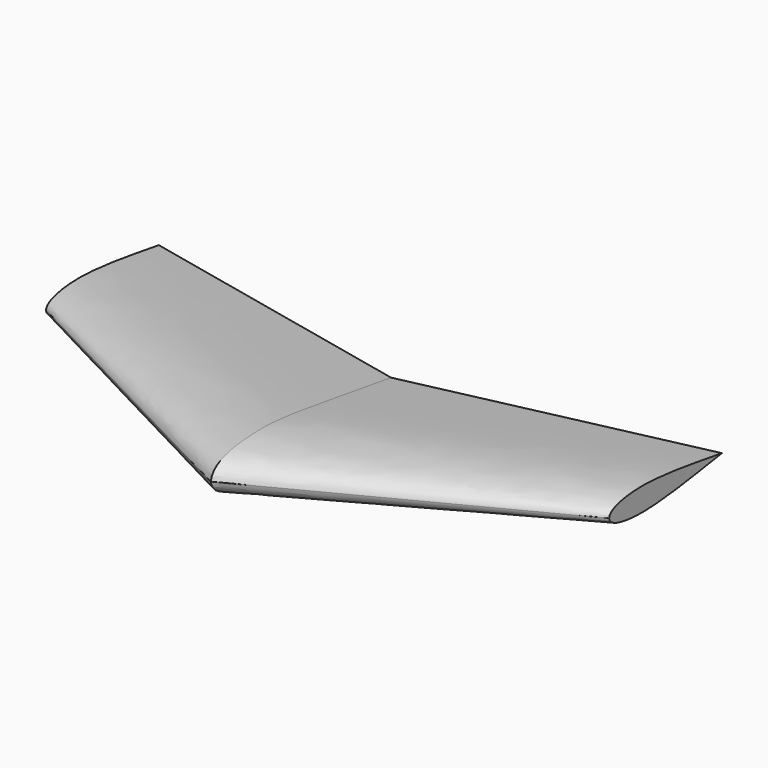
from build123d import *


with BuildPart() as f3:
    # F0 (on Right) → F3 section 0
    with BuildSketch(Plane.YZ):
        with BuildLine():
            add(Edge.make_bspline(
                [(-74.6488047036, 0), (-73.1489053966, 10.9129272424), (-22.272755378, 17.3639923162), (0, 11.4252935935), (77.7511952964, 0)],
                knots=[0, 0, 0, 0, 0.3579975169, 1, 1, 1, 1], degree=3))
            add(Edge.make_bspline(
                [(-74.6488047036, 0), (-73.1489053966, -10.9129272424), (-22.272755378, -17.3639923162), (0, -11.4252935935), (77.7511952964, 0)],
                knots=[0, 0, 0, 0, 0.3579975169, 1, 1, 1, 1], degree=3))
        make_face()
    # F2 (on offset) → F3 section 1
    with BuildSketch(Plane.YZ.offset(-190.5)):
        with BuildLine():
            add(Edge.make_bspline(
                [(24.1265352815, 0), (24.1203909695, 3.9409226355), (47.6140337916, 11.2429135324), (83.1143904431, 5.6967475629), (119.468845427, 0)],
                knots=[0, 0, 0, 0, 0.3223846335, 1, 1, 1, 1], degree=3))
            add(Edge.make_bspline(
                [(24.1265352815, 0), (24.1203909695, -3.9409226355), (47.6140337916, -11.2429135324), (83.1143904431, -5.6967475629), (119.468845427, 0)],
                knots=[0, 0, 0, 0, 0.3223846335, 1, 1, 1, 1], degree=3))
        make_face()
    loft()

    # F4: F3 across plane


with BuildPart() as f3_1:
    add(f3.part)
    add(f3.part.mirror(Plane.YZ))


solid = f3_1.part
